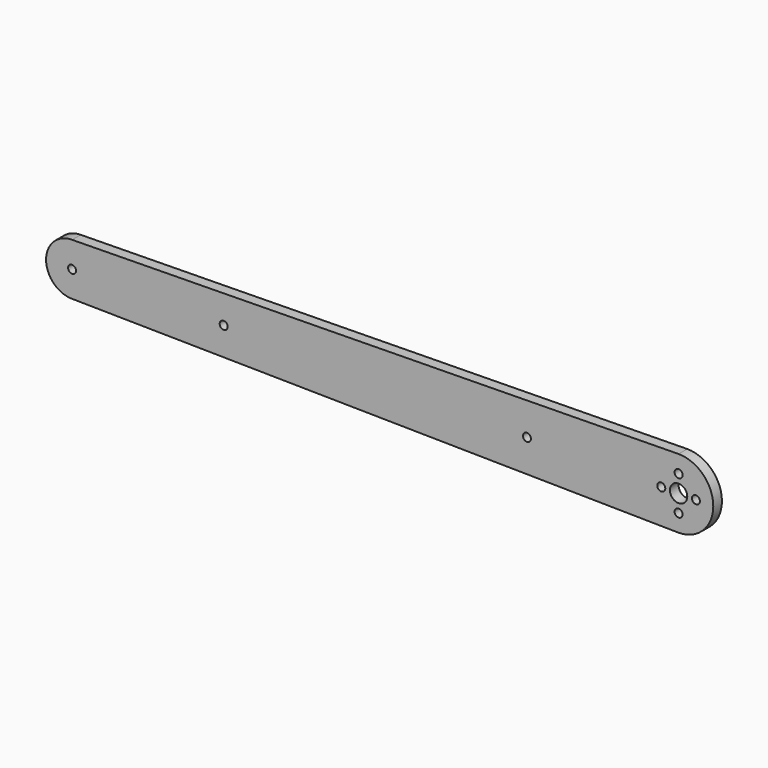
from build123d import *

# Parameters (mm, degrees)
F0_R     = 1.85
F0_R_2   = 4
F1_DEPTH = 2.5


with BuildPart() as f1:
    # F0 (on Front) → F1 (new body, symmetric)
    with BuildSketch(Plane.XZ):
        with BuildLine():
            ThreePointArc((-140, 12), (-152, 0), (-140, -12))
            Line((-140, -12), (140, -16))
            ThreePointArc((140, -16), (156, 0), (140, 16))
            Line((140, 16), (-140, 12))
        make_face()
        with Locations((140, -8)):
            Circle(F0_R, mode=Mode.SUBTRACT)
        with Locations((-140, 0)):
            Circle(F0_R, mode=Mode.SUBTRACT)
        with Locations((-70, 0)):
            Circle(F0_R, mode=Mode.SUBTRACT)
        with Locations((70, 0)):
            Circle(F0_R, mode=Mode.SUBTRACT)
        with Locations((132, 0)):
            Circle(F0_R, mode=Mode.SUBTRACT)
        with Locations((140, 0)):
            Circle(F0_R_2, mode=Mode.SUBTRACT)
        with Locations((148, 0)):
            Circle(F0_R, mode=Mode.SUBTRACT)
        with Locations((140, 8)):
            Circle(F0_R, mode=Mode.SUBTRACT)
    extrude(amount=F1_DEPTH, both=True)


solid = f1.part
